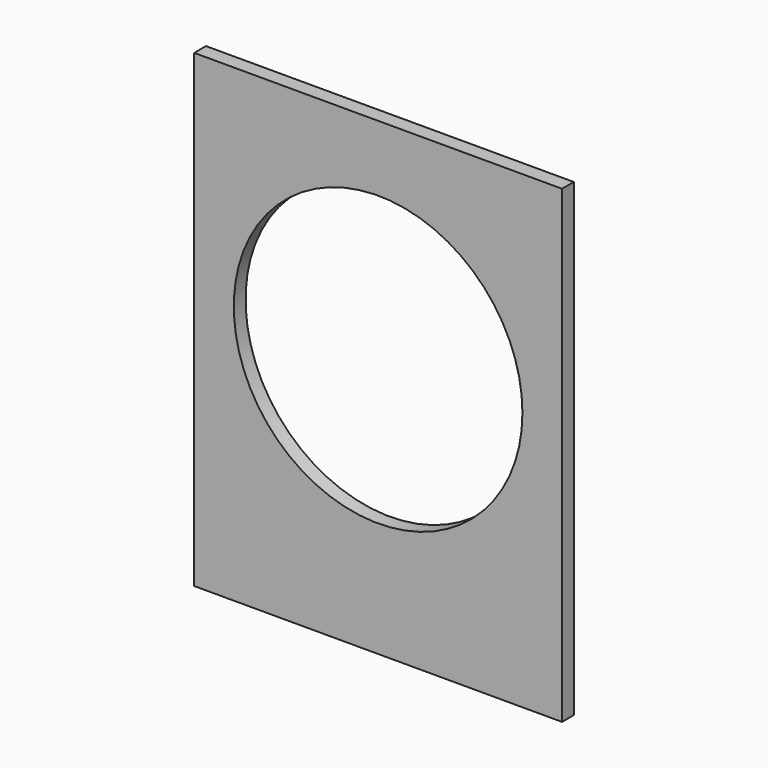
from build123d import *

# Parameters (mm, degrees)
F0_W     = 525
F0_H     = 670
F1_DEPTH = 21
F2_R     = 206
F3_DEPTH = 25


with BuildPart() as f1:
    # F0 (on Front) → F1 (new body)
    with BuildSketch(Plane.XZ):
        Rectangle(F0_W, F0_H)
    extrude(amount=F1_DEPTH)

    # F2 (on face) → F3 (cut)
    with BuildSketch(Plane.XZ.offset(21)):
        with Locations((0, 35)):
            Circle(F2_R)
    extrude(amount=-F3_DEPTH, mode=Mode.SUBTRACT)


solid = f1.part
